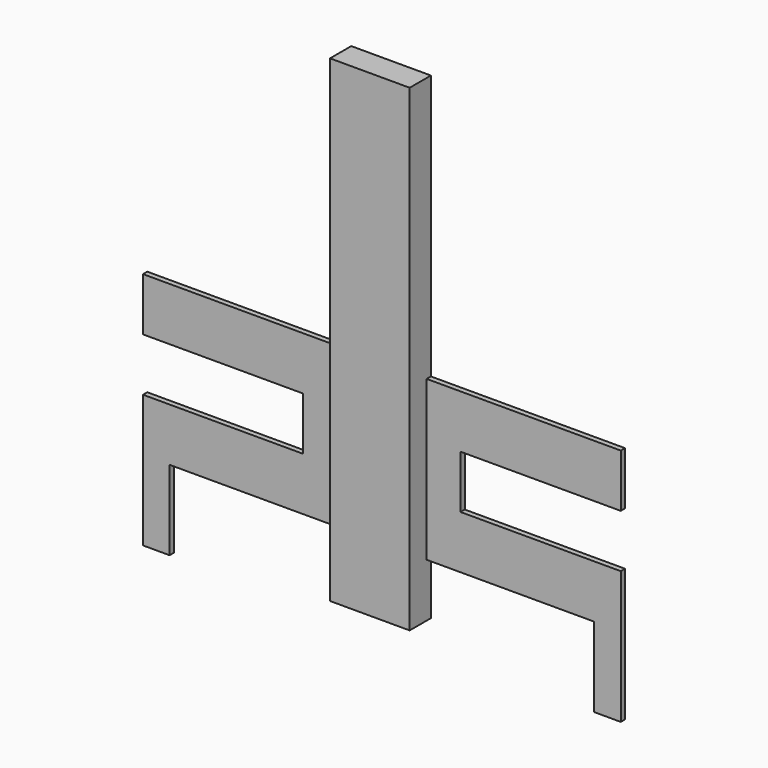
from build123d import *

# Parameters (mm, degrees)
F0_W     = 300
F0_H     = 1800
F1_DEPTH = 100
F3_DEPTH = 20


with BuildPart() as f1:
    # F0 (on Front) → F1 (new body)
    with BuildSketch(Plane.XZ):
        Rectangle(F0_W, F0_H)
    extrude(amount=F1_DEPTH)


with BuildPart() as f3:
    # F2 (on Front) → F3 (new body)
    with BuildSketch(Plane.XZ):
        Polygon((-918.671599, -298.099249), (-315.183236, -298.099249), (-315.183236, -498.099249), (-918.671599, -498.099249), (-918.671599, -998.099249), (-818.671599, -998.099249), (-818.671599, -698.099249), (781.328401, -698.099249), (781.328401, -998.099249), (881.328401, -998.099249), (881.328401, -498.099249), (277.840038, -498.099249), (277.840038, -298.099249), (881.328401, -298.099249), (881.328401, -98.099249), (-918.671599, -98.099249), align=None)
    extrude(amount=F3_DEPTH)


solid = Compound([f1.part, f3.part])
